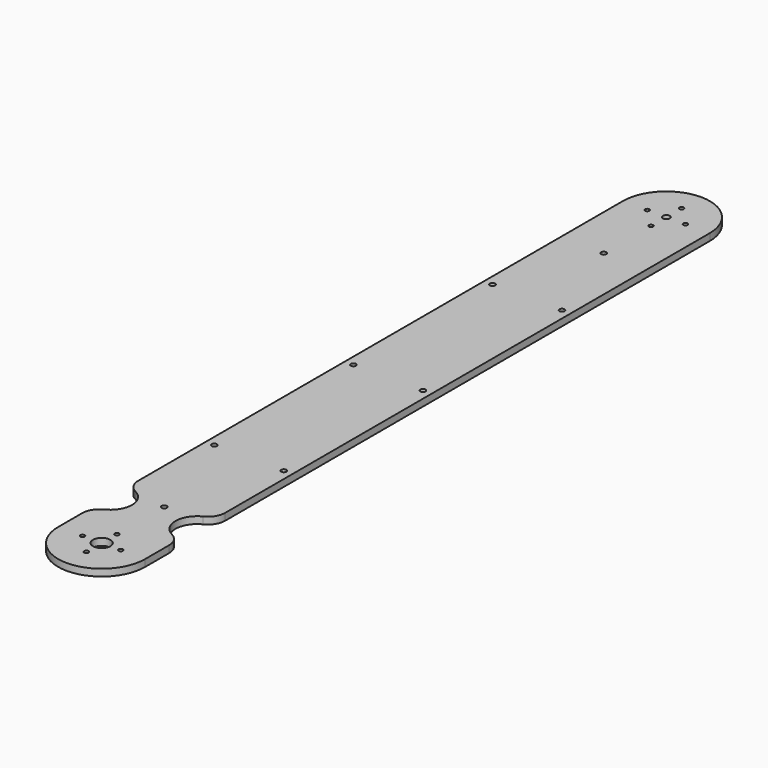
from build123d import *

# Parameters (mm, degrees)
SKETCH001_R             = 2
SKETCH001_R_2           = 1.25
SKETCH001_R_3           = 1.5
SKETCH001_R_4           = 5
PAD001_DEPTH            = 4
SKETCH002_R             = 12.5
POCKET_DEPTH            = 11
FILLET_R                = 10
BODY001_PLACEMENT_ANGLE = 180


with BuildPart() as part:
    # Sketch001 → Pad001 (new body)
    with BuildSketch(Plane.XY):
        with BuildLine():
            ThreePointArc((-25, 0), (0, -25), (25, 0))
            Line((25, 0), (25, 406.000606))
            ThreePointArc((25, 406.000606), (0, 431.000606), (-25, 406.000606))
            Line((-25, 0), (-25, 406.000606))
        make_face()
        with Locations((0, 0.000303)):
            Circle(SKETCH001_R, mode=Mode.SUBTRACT)
        with Locations((10.999698, 0.000303)):
            Circle(SKETCH001_R_2, mode=Mode.SUBTRACT)
        with Locations((0, 11)):
            Circle(SKETCH001_R_2, mode=Mode.SUBTRACT)
        with Locations((-10.999697, 0.000303)):
            Circle(SKETCH001_R_2, mode=Mode.SUBTRACT)
        with Locations((0, -10.999395)):
            Circle(SKETCH001_R_2, mode=Mode.SUBTRACT)
        with Locations((-20, 300.000454)):
            Circle(SKETCH001_R_3, mode=Mode.SUBTRACT)
        with Locations((20, 300.000454)):
            Circle(SKETCH001_R_3, mode=Mode.SUBTRACT)
        with Locations((-20, 200.000303)):
            Circle(SKETCH001_R_3, mode=Mode.SUBTRACT)
        with Locations((20, 200.000303)):
            Circle(SKETCH001_R_3, mode=Mode.SUBTRACT)
        with Locations((-20, 100.000152)):
            Circle(SKETCH001_R_3, mode=Mode.SUBTRACT)
        with Locations((20, 100.000152)):
            Circle(SKETCH001_R_3, mode=Mode.SUBTRACT)
        with Locations((0, 45)):
            Circle(SKETCH001_R_3, mode=Mode.SUBTRACT)
        with Locations((0, 406.000606)):
            Circle(SKETCH001_R_4, mode=Mode.SUBTRACT)
        with Locations((0, 417.000606)):
            Circle(SKETCH001_R_2, mode=Mode.SUBTRACT)
        with Locations((-10.999697, 406.000909)):
            Circle(SKETCH001_R_2, mode=Mode.SUBTRACT)
        with Locations((0, 395.001211)):
            Circle(SKETCH001_R_2, mode=Mode.SUBTRACT)
        with Locations((10.999698, 406.000909)):
            Circle(SKETCH001_R_2, mode=Mode.SUBTRACT)
        with Locations((0, 361.000606)):
            Circle(SKETCH001_R_3, mode=Mode.SUBTRACT)
    extrude(amount=PAD001_DEPTH)

    # Sketch002 (on Face24 of Pad001) → Pocket (cut)
    with BuildSketch(Plane.XY.offset(4)):
        with Locations((-25, 368.584032)):
            Circle(SKETCH002_R)
        with Locations((25, 368.584032)):
            Circle(SKETCH002_R)
    extrude(amount=-POCKET_DEPTH, mode=Mode.SUBTRACT)

    # Fillet
    fillet_edges = [part.edges().sort_by_distance(p)[0] for p in [
        (25, 381.084032, 2),
        (25, 356.084032, 2),
        (-25, 381.084032, 2),
        (-25, 356.084032, 2),
    ]]
    fillet(fillet_edges, radius=FILLET_R)


with BuildPart() as part_1:
    # Body001 placement: moved
    add(part.part.moved(Location((68.48, 410, 17.66))).rotate(Axis((68.48, 410, 17.66), (0, 0, 1)), BODY001_PLACEMENT_ANGLE))


solid = part_1.part
